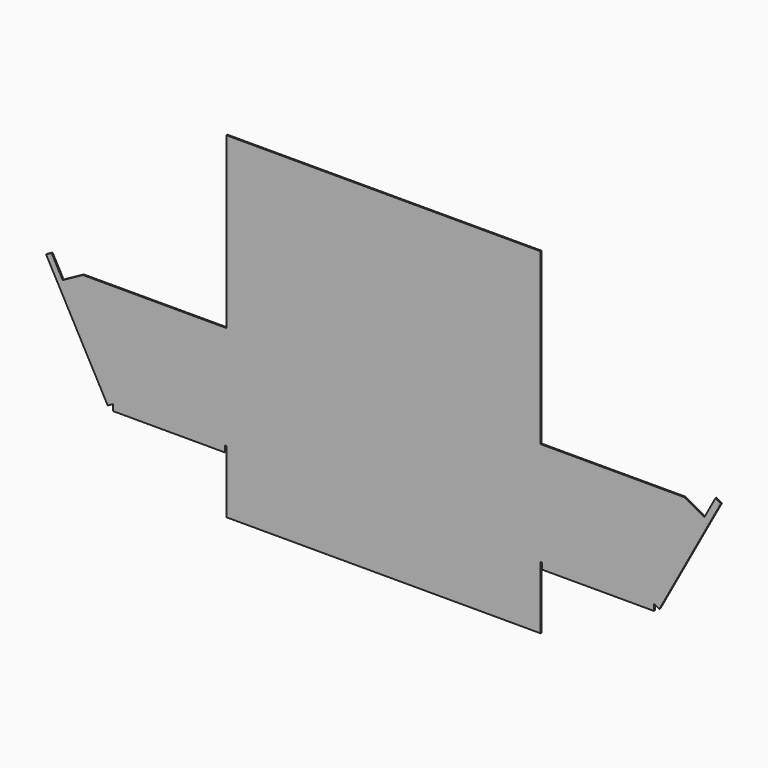
from build123d import *

# Parameters (mm, degrees)
F0_W     = 50
F0_H     = 27
F0_H_2   = 16.5
F0_H_3   = 10
F0_W_2   = 17.75
F0_H_4   = 1
F1_DEPTH = 0.2


with BuildPart() as f1:
    # F0 (on Front) → F1 (new body)
    with BuildSketch(Plane.XZ):
        with Locations((0, 21.75)):
            Rectangle(F0_W, F0_H)
        Rectangle(F0_W, F0_H_2)
        Polygon((-25, -8.25), (-25, 8.25), (-47.8233453046, 8.25), (-51.0422957386, 6.4942088542), (-43, -8.25), (-25.25, -8.25), align=None)
        Polygon((47.8233453046, 8.25), (25, 8.25), (25, -8.25), (25.25, -8.25), (43, -8.25), (51.0422957386, 6.4942088542), align=None)
        with Locations((0, -13.25)):
            Rectangle(F0_W, F0_H_3)
        with Locations((-34.125, -8.75)):
            Rectangle(F0_W_2, F0_H_4)
        Polygon((-43, -8.25), (-51.0422957386, 6.4942088542), (-52, 8.25), (-52.806383322, 9.7089842144), (-53.6761296987, 9.2345770999), (-52.8778955729, 7.7711478693), (-43.8778955729, -8.7288521307), align=None)
        with Locations((34.125, -8.75)):
            Rectangle(F0_W_2, F0_H_4)
        Polygon((52, 8.25), (51.0422957386, 6.4942088542), (43, -8.25), (43.8778955729, -8.7288521307), (52.8778955729, 7.7711478693), (53.6761420748, 9.2345997894), (52.7982465018, 9.71345192), align=None)
    extrude(amount=F1_DEPTH)


solid = f1.part
